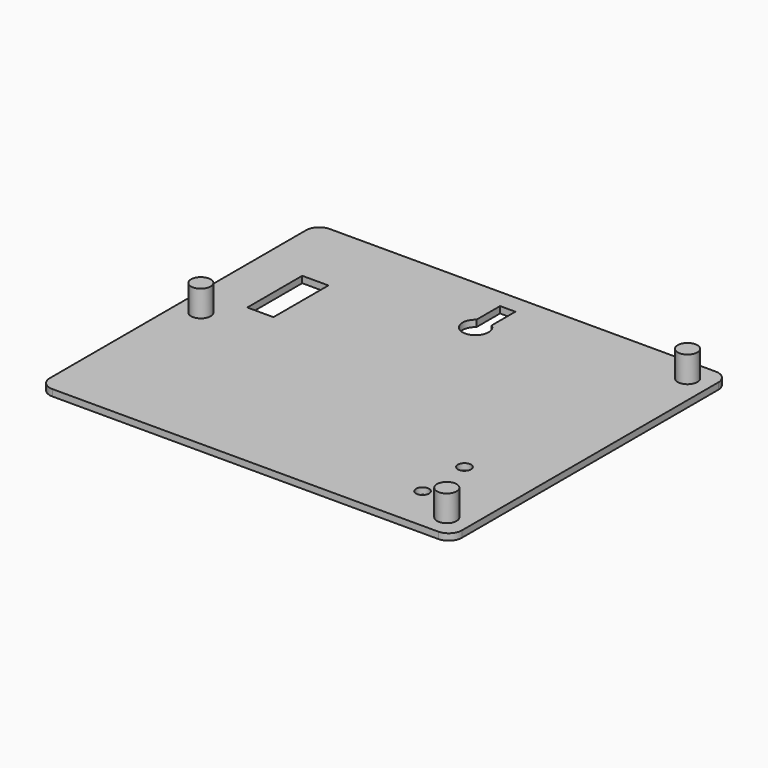
from build123d import *

# Parameters (mm, degrees)
F1_W     = 63
F1_H     = 53
F1_R     = 1.5
F1_R_2   = 1
F1_W_2   = 4
F1_H_2   = 10.5
F2_DEPTH = 1
F3_R     = 2
F4_DEPTH = 25
F5_DEPTH = 25
F6_DEPTH = 25
F7_DEPTH = 20


with BuildPart() as f2:
    # F1 (on face) → F2 (new body)
    with BuildSketch(Plane.XY):
        with Locations((-39.7031286434, 26.5)):
            Rectangle(F1_W, F1_H)
        with Locations((-11.7031286434, 3.5)):
            Circle(F1_R, mode=Mode.SUBTRACT)
        with Locations((-18.2031286434, 7)):
            Circle(F1_R_2, mode=Mode.SUBTRACT)
        with Locations((-18.2031286434, 15)):
            Circle(F1_R_2, mode=Mode.SUBTRACT)
        with Locations((-67.7031286434, 26.5)):
            Circle(F1_R, mode=Mode.SUBTRACT)
        with Locations((-62.2031286434, 36.25)):
            Rectangle(F1_W_2, F1_H_2, mode=Mode.SUBTRACT)
        with BuildLine():
            ThreePointArc((-38.5332978681, 45.6221886318), (-37.9227267856, 44.9111362273), (-37.7031286434, 44))
            ThreePointArc((-37.7031286434, 44), (-40.6142648707, 42.2195981422), (-40.8729594187, 45.6221886318))
            Line((-40.8729594187, 45.6221886318), (-40.8729594187, 50.1384101469))
            Line((-40.8729594187, 50.1384101469), (-38.5332978681, 50.1384101469))
            Line((-38.5332978681, 50.1384101469), (-38.5332978681, 45.6221886318))
        make_face(mode=Mode.SUBTRACT)
        with Locations((-11.7031286434, 49.5)):
            Circle(F1_R, mode=Mode.SUBTRACT)
    extrude(amount=F2_DEPTH)

    # F3
    f3_edges = [f2.edges().sort_by_distance(p)[0] for p in [
        (-71.203129, 53, 0.5),
        (-71.203129, 0, 0.5),
        (-8.203129, 0, 0.5),
        (-8.203129, 53, 0.5),
    ]]
    fillet(f3_edges, radius=F3_R)

    # F1 (on face) → F4 (join)
    with BuildSketch(Plane.XY):
        with Locations((-11.7031286434, 49.5)):
            Circle(F1_R)
        with Locations((-11.7031286434, 3.5)):
            Circle(F1_R)
        with Locations((-67.7031286434, 26.5)):
            Circle(F1_R)
        with Locations((-62.2031286434, 36.25)):
            Rectangle(F1_W_2, F1_H_2)
        with Locations((-18.2031286434, 7)):
            Circle(F1_R_2)
        with Locations((-18.2031286434, 15)):
            Circle(F1_R_2)
        with BuildLine():
            ThreePointArc((-40.8729594187, 45.6221886318), (-40.6142648707, 42.2195981422), (-37.7031286434, 44))
            ThreePointArc((-37.7031286434, 44), (-37.9227267856, 44.9111362273), (-38.5332978681, 45.6221886318))
            Line((-38.5332978681, 45.6221886318), (-40.8729594187, 45.6221886318))
        make_face()
        with BuildLine():
            Line((-40.8729594187, 45.6221886318), (-38.5332978681, 45.6221886318))
            ThreePointArc((-38.5332978681, 45.6221886318), (-39.7031286434, 46), (-40.8729594187, 45.6221886318))
        make_face()
        with BuildLine():
            ThreePointArc((-40.8729594187, 45.6221886318), (-39.7031286434, 46), (-38.5332978681, 45.6221886318))
            Line((-38.5332978681, 45.6221886318), (-38.5332978681, 50.1384101469))
            Line((-38.5332978681, 50.1384101469), (-40.8729594187, 50.1384101469))
            Line((-40.8729594187, 50.1384101469), (-40.8729594187, 45.6221886318))
        make_face()
    extrude(amount=F4_DEPTH)

    # F5 (cut): a face of the model
    f5_faces = [f2.faces().sort_by_distance(p)[0] for p in [
        (-62.2031286434, 36.25, 25),
    ]]
    extrude(f5_faces, amount=-F5_DEPTH, mode=Mode.SUBTRACT)

    # F6 (cut): faces of the model
    f6_faces = [f2.faces().sort_by_distance(p)[0] for p in [
        (-39.7031286434, 45.772355973, 25),
        (-18.2031286434, 15, 25),
        (-18.2031286434, 7, 25),
    ]]
    extrude(f6_faces, amount=-F6_DEPTH, mode=Mode.SUBTRACT)

    # F7 (cut): faces of the model
    f7_faces = [f2.faces().sort_by_distance(p)[0] for p in [
        (-11.7031286434, 49.5, 25),
        (-67.7031286434, 26.5, 25),
        (-11.7031286434, 3.5, 25),
    ]]
    extrude(f7_faces, amount=-F7_DEPTH, mode=Mode.SUBTRACT)


solid = f2.part
